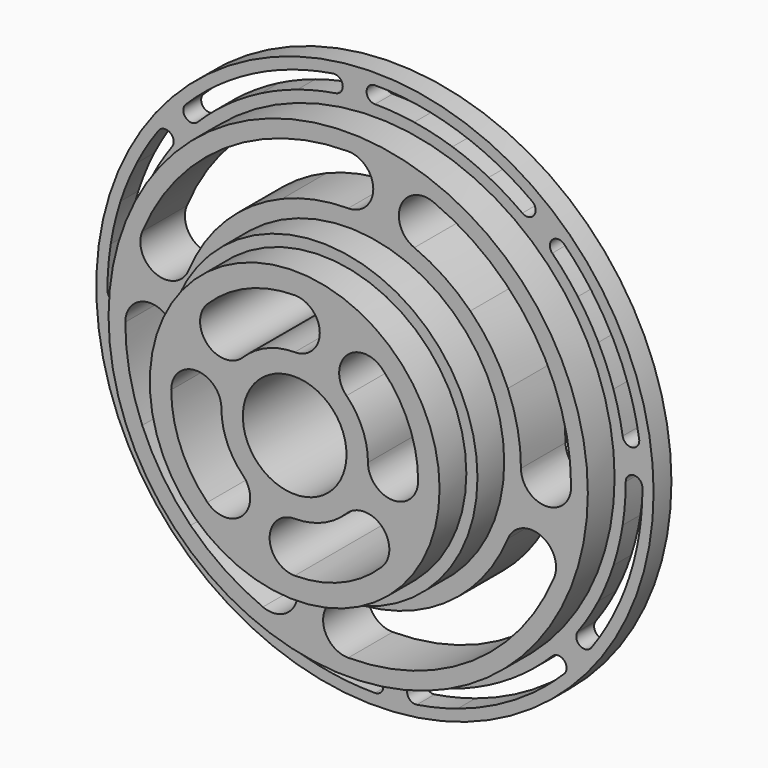
from build123d import *

# Parameters (mm, degrees)
F0_R      = 50
F0_R_2    = 1.5
F0_R_3    = 43
F1_DEPTH  = 4
F0_R_4    = 4.5
F0_R_5    = 28
F2_DEPTH  = 10
F0_R_6    = 26
F3_DEPTH  = 16
F0_R_7    = 9.3
F4_DEPTH  = 22
F6_DEPTH  = 25
F8_DEPTH  = 25
F10_DEPTH = 25


with BuildPart() as f1:
    # F0 (on Front) → F1 (new body)
    with BuildSketch(Plane.XZ):
        Circle(F0_R)
        with Locations((-27.3320142316, -37.6192902384)):
            Circle(F0_R_2, mode=Mode.SUBTRACT)
        with Locations((-37.6192902384, -27.3320142316)):
            Circle(F0_R_2, mode=Mode.SUBTRACT)
        with Locations((-32.8804653252, -32.8804653252)):
            Circle(F0_R_2, mode=Mode.SUBTRACT)
        with Locations((-14.3692902384, -44.2241280077)):
            Circle(F0_R_2, mode=Mode.SUBTRACT)
        with Locations((-21.1105582379, -41.4318033748)):
            Circle(F0_R_2, mode=Mode.SUBTRACT)
        with Locations((-7.2742026244, -45.9275078377)):
            Circle(F0_R_2, mode=Mode.SUBTRACT)
        with Locations((-41.4318033748, -21.1105582379)):
            Circle(F0_R_2, mode=Mode.SUBTRACT)
        with Locations((-44.2241280077, -14.3692902384)):
            Circle(F0_R_2, mode=Mode.SUBTRACT)
        with Locations((-45.9275078377, -7.2742026244)):
            Circle(F0_R_2, mode=Mode.SUBTRACT)
        with Locations((0, -46.5)):
            Circle(F0_R_2, mode=Mode.SUBTRACT)
        with Locations((7.2742026244, -45.9275078377)):
            Circle(F0_R_2, mode=Mode.SUBTRACT)
        with Locations((14.3692902384, -44.2241280077)):
            Circle(F0_R_2, mode=Mode.SUBTRACT)
        with Locations((21.1105582379, -41.4318033748)):
            Circle(F0_R_2, mode=Mode.SUBTRACT)
        with Locations((27.3320142316, -37.6192902384)):
            Circle(F0_R_2, mode=Mode.SUBTRACT)
        with Locations((32.8804653252, -32.8804653252)):
            Circle(F0_R_2, mode=Mode.SUBTRACT)
        with Locations((37.6192902384, -27.3320142316)):
            Circle(F0_R_2, mode=Mode.SUBTRACT)
        with Locations((41.4318033748, -21.1105582379)):
            Circle(F0_R_2, mode=Mode.SUBTRACT)
        with Locations((44.2241280077, -14.3692902384)):
            Circle(F0_R_2, mode=Mode.SUBTRACT)
        with Locations((45.9275078377, -7.2742026244)):
            Circle(F0_R_2, mode=Mode.SUBTRACT)
        with Locations((-46.5, 0)):
            Circle(F0_R_2, mode=Mode.SUBTRACT)
        with Locations((-45.9275078377, 7.2742026244)):
            Circle(F0_R_2, mode=Mode.SUBTRACT)
        with Locations((-44.2241280077, 14.3692902384)):
            Circle(F0_R_2, mode=Mode.SUBTRACT)
        with Locations((-41.4318033748, 21.1105582379)):
            Circle(F0_R_2, mode=Mode.SUBTRACT)
        with Locations((-37.6192902384, 27.3320142316)):
            Circle(F0_R_2, mode=Mode.SUBTRACT)
        with Locations((-32.8804653252, 32.8804653252)):
            Circle(F0_R_2, mode=Mode.SUBTRACT)
        with Locations((-27.3320142316, 37.6192902384)):
            Circle(F0_R_2, mode=Mode.SUBTRACT)
        with Locations((-21.1105582379, 41.4318033748)):
            Circle(F0_R_2, mode=Mode.SUBTRACT)
        with Locations((-14.3692902384, 44.2241280077)):
            Circle(F0_R_2, mode=Mode.SUBTRACT)
        with Locations((-7.2742026244, 45.9275078377)):
            Circle(F0_R_2, mode=Mode.SUBTRACT)
        Circle(F0_R_3, mode=Mode.SUBTRACT)
        with Locations((46.5, 0)):
            Circle(F0_R_2, mode=Mode.SUBTRACT)
        with Locations((45.9275078377, 7.2742026244)):
            Circle(F0_R_2, mode=Mode.SUBTRACT)
        with Locations((44.2241280077, 14.3692902384)):
            Circle(F0_R_2, mode=Mode.SUBTRACT)
        with Locations((41.4318033748, 21.1105582379)):
            Circle(F0_R_2, mode=Mode.SUBTRACT)
        with Locations((0, 46.5)):
            Circle(F0_R_2, mode=Mode.SUBTRACT)
        with Locations((7.2742026244, 45.9275078377)):
            Circle(F0_R_2, mode=Mode.SUBTRACT)
        with Locations((21.1105582379, 41.4318033748)):
            Circle(F0_R_2, mode=Mode.SUBTRACT)
        with Locations((14.3692902384, 44.2241280077)):
            Circle(F0_R_2, mode=Mode.SUBTRACT)
        with Locations((32.8804653252, 32.8804653252)):
            Circle(F0_R_2, mode=Mode.SUBTRACT)
        with Locations((37.6192902384, 27.3320142316)):
            Circle(F0_R_2, mode=Mode.SUBTRACT)
        with Locations((27.3320142316, 37.6192902384)):
            Circle(F0_R_2, mode=Mode.SUBTRACT)
    extrude(amount=F1_DEPTH)

    # F0 (on Front) → F2 (join)
    with BuildSketch(Plane.XZ):
        Circle(F0_R_3)
        with Locations((-25.1022907321, -25.1022907321)):
            Circle(F0_R_4, mode=Mode.SUBTRACT)
        with Locations((-13.585261849, -32.7977234042)):
            Circle(F0_R_4, mode=Mode.SUBTRACT)
        with Locations((-32.7977234042, -13.585261849)):
            Circle(F0_R_4, mode=Mode.SUBTRACT)
        with Locations((0, -35.5)):
            Circle(F0_R_4, mode=Mode.SUBTRACT)
        with Locations((13.585261849, -32.7977234042)):
            Circle(F0_R_4, mode=Mode.SUBTRACT)
        with Locations((25.1022907321, -25.1022907321)):
            Circle(F0_R_4, mode=Mode.SUBTRACT)
        with Locations((32.7977234042, -13.585261849)):
            Circle(F0_R_4, mode=Mode.SUBTRACT)
        with Locations((-35.5, 0)):
            Circle(F0_R_4, mode=Mode.SUBTRACT)
        with Locations((-32.7977234042, 13.585261849)):
            Circle(F0_R_4, mode=Mode.SUBTRACT)
        with Locations((-25.1022907321, 25.1022907321)):
            Circle(F0_R_4, mode=Mode.SUBTRACT)
        with Locations((-13.585261849, 32.7977234042)):
            Circle(F0_R_4, mode=Mode.SUBTRACT)
        Circle(F0_R_5, mode=Mode.SUBTRACT)
        with Locations((35.5, 0)):
            Circle(F0_R_4, mode=Mode.SUBTRACT)
        with Locations((32.7977234042, 13.585261849)):
            Circle(F0_R_4, mode=Mode.SUBTRACT)
        with Locations((0, 35.5)):
            Circle(F0_R_4, mode=Mode.SUBTRACT)
        with Locations((13.585261849, 32.7977234042)):
            Circle(F0_R_4, mode=Mode.SUBTRACT)
        with Locations((25.1022907321, 25.1022907321)):
            Circle(F0_R_4, mode=Mode.SUBTRACT)
    extrude(amount=F2_DEPTH)

    # F0 (on Front) → F3 (join)
    with BuildSketch(Plane.XZ):
        Circle(F0_R_5)
        Circle(F0_R_6, mode=Mode.SUBTRACT)
    extrude(amount=F3_DEPTH)

    # F0 (on Front) → F4 (join)
    with BuildSketch(Plane.XZ):
        Circle(F0_R_6)
        with Locations((-12.4804346879, -12.4804346879)):
            Circle(F0_R_4, mode=Mode.SUBTRACT)
        with Locations((0, -17.65)):
            Circle(F0_R_4, mode=Mode.SUBTRACT)
        with Locations((12.4804346879, -12.4804346879)):
            Circle(F0_R_4, mode=Mode.SUBTRACT)
        with Locations((-17.65, 0)):
            Circle(F0_R_4, mode=Mode.SUBTRACT)
        with Locations((-12.4804346879, 12.4804346879)):
            Circle(F0_R_4, mode=Mode.SUBTRACT)
        Circle(F0_R_7, mode=Mode.SUBTRACT)
        with Locations((12.4804346879, 12.4804346879)):
            Circle(F0_R_4, mode=Mode.SUBTRACT)
        with Locations((17.65, 0)):
            Circle(F0_R_4, mode=Mode.SUBTRACT)
        with Locations((0, 17.65)):
            Circle(F0_R_4, mode=Mode.SUBTRACT)
    extrude(amount=F4_DEPTH)

    # F5 (on face) → F6 (cut)
    with BuildSketch(Plane.XZ.offset(4)):
        with BuildLine():
            ThreePointArc((-5.7742026244, 45.9275078377), (-6.3000305476, 47.0681167824), (-7.5088543109, 47.4090403503))
            ThreePointArc((-7.5088543109, 47.4090403503), (-8.7557351361, 45.6928561456), (-7.0395509267, 44.4459753268))
            ThreePointArc((-7.0395509267, 44.4459753268), (-6.1335936759, 44.9533357652), (-5.7742026244, 45.9275078377))
        make_face()
        with BuildLine():
            ThreePointArc((-7.0395509267, 44.4459753268), (-8.7557351361, 45.6928561456), (-7.5088543109, 47.4090403503))
            ThreePointArc((-7.5088543109, 47.4090403503), (-11.2053775064, 46.6737561692), (-14.8328158214, 45.6507127525))
            ThreePointArc((-14.8328158214, 45.6507127525), (-13.4876123989, 45.4376535275), (-12.8692902384, 44.2241280077))
            ThreePointArc((-12.8692902384, 44.2241280077), (-13.1557647379, 43.3424501417), (-13.9057647178, 42.7975432427))
            ThreePointArc((-13.9057647178, 42.7975432427), (-10.5050413586, 43.7566464215), (-7.0395509267, 44.4459753268))
        make_face()
        with BuildLine():
            ThreePointArc((-12.8692902384, 44.2241280077), (-13.4876123989, 45.4376535275), (-14.8328158214, 45.6507127525))
            ThreePointArc((-14.8328158214, 45.6507127525), (-15.7958749933, 43.7606024559), (-13.9057647178, 42.7975432427))
            ThreePointArc((-13.9057647178, 42.7975432427), (-13.1557647379, 43.3424501417), (-12.8692902384, 44.2241280077))
        make_face()
        with BuildLine():
            ThreePointArc((-13.9057647178, 42.7975432427), (-15.7958749933, 43.7606024559), (-14.8328158214, 45.6507127525))
            ThreePointArc((-14.8328158214, 45.6507127525), (-18.3688047795, 44.3462175498), (-21.791543952, 42.7683131791))
            ThreePointArc((-21.791543952, 42.7683131791), (-20.3268103738, 42.7107636109), (-19.6105582379, 41.4318033748))
            ThreePointArc((-19.6105582379, 41.4318033748), (-19.831598027, 40.6480554694), (-20.42957261, 40.0952935265))
            ThreePointArc((-20.42957261, 40.0952935265), (-17.2207545054, 41.5745789427), (-13.9057647178, 42.7975432427))
        make_face()
        with BuildLine():
            ThreePointArc((-19.6105582379, 41.4318033748), (-20.3268103738, 42.7107636109), (-21.791543952, 42.7683131791))
            ThreePointArc((-21.791543952, 42.7683131791), (-22.4470680642, 40.7508177038), (-20.42957261, 40.0952935265))
            ThreePointArc((-20.42957261, 40.0952935265), (-19.831598027, 40.6480554694), (-19.6105582379, 41.4318033748))
        make_face()
        with BuildLine():
            ThreePointArc((-20.42957261, 40.0952935265), (-22.4470680642, 40.7508177038), (-21.791543952, 42.7683131791))
            ThreePointArc((-21.791543952, 42.7683131791), (-25.0799311131, 40.9267278849), (-28.2136921551, 38.8328156973))
            ThreePointArc((-28.2136921551, 38.8328156973), (-26.6510285068, 38.9558000374), (-25.8320142316, 37.6192902384))
            ThreePointArc((-25.8320142316, 37.6192902384), (-25.9955044239, 36.9383045308), (-26.4503362769, 36.4057648023))
            ThreePointArc((-26.4503362769, 36.4057648023), (-23.5124354303, 38.3688073849), (-20.42957261, 40.0952935265))
        make_face()
        with BuildLine():
            ThreePointArc((-25.8320142316, 37.6192902384), (-26.6510285068, 38.9558000374), (-28.2136921551, 38.8328156973))
            ThreePointArc((-28.2136921551, 38.8328156973), (-28.5455396791, 36.7376122993), (-26.4503362769, 36.4057648023))
            ThreePointArc((-26.4503362769, 36.4057648023), (-25.9955044239, 36.9383045308), (-25.8320142316, 37.6192902384))
        make_face()
        with BuildLine():
            ThreePointArc((-26.4503362769, 36.4057648023), (-28.5455396791, 36.7376122993), (-28.2136921551, 38.8328156973))
            ThreePointArc((-28.2136921551, 38.8328156973), (-31.173506341, 36.4994863307), (-33.941125497, 33.941125497))
            ThreePointArc((-33.941125497, 33.941125497), (-32.3064401766, 34.2662846239), (-31.3804653252, 32.8804653252))
            ThreePointArc((-31.3804653252, 32.8804653252), (-31.4946460264, 32.3064401766), (-31.8198051534, 31.8198051534))
            ThreePointArc((-31.8198051534, 31.8198051534), (-29.225162139, 34.2182684826), (-26.4503362769, 36.4057648023))
        make_face()
        with BuildLine():
            ThreePointArc((-31.3804653252, 32.8804653252), (-32.3064401766, 34.2662846239), (-33.941125497, 33.941125497))
            ThreePointArc((-33.941125497, 33.941125497), (-33.941125497, 31.8198051534), (-31.8198051534, 31.8198051534))
            ThreePointArc((-31.8198051534, 31.8198051534), (-31.4946460264, 32.3064401766), (-31.3804653252, 32.8804653252))
        make_face()
        with BuildLine():
            ThreePointArc((-36.1192902384, 27.3320142316), (-37.1557647204, 28.7585989974), (-38.8328156973, 28.2136921551))
            ThreePointArc((-38.8328156973, 28.2136921551), (-38.5009681184, 26.1184887411), (-36.4057647163, 26.4503363952))
            ThreePointArc((-36.4057647163, 26.4503363952), (-36.192705456, 26.8684887648), (-36.1192902384, 27.3320142316))
        make_face()
        with BuildLine():
            ThreePointArc((-36.4057647163, 26.4503363952), (-38.5009681184, 26.1184887411), (-38.8328156973, 28.2136921551))
            ThreePointArc((-38.8328156973, 28.2136921551), (-40.9267278619, 25.0799311506), (-42.7683131393, 21.7915440302))
            ThreePointArc((-42.7683131393, 21.7915440302), (-41.0816353056, 22.5691131129), (-39.9318033748, 21.1105582379))
            ThreePointArc((-39.9318033748, 21.1105582379), (-39.9732484715, 20.7603902867), (-40.0952935002, 20.4295726616))
            ThreePointArc((-40.0952935002, 20.4295726616), (-38.3688073315, 23.5124355173), (-36.4057647163, 26.4503363952))
        make_face()
        with BuildLine():
            ThreePointArc((-39.9318033748, 21.1105582379), (-41.0816353056, 22.5691131129), (-42.7683131393, 21.7915440302))
            ThreePointArc((-42.7683131393, 21.7915440302), (-42.1127890591, 19.7740484183), (-40.0952935002, 20.4295726616))
            ThreePointArc((-40.0952935002, 20.4295726616), (-39.9732484715, 20.7603902867), (-39.9318033748, 21.1105582379))
        make_face()
        with BuildLine():
            ThreePointArc((-40.0952935002, 20.4295726616), (-42.1127890591, 19.7740484183), (-42.7683131393, 21.7915440302))
            ThreePointArc((-42.7683131393, 21.7915440302), (-44.346217533, 18.3688048201), (-45.6507127525, 14.8328158215))
            ThreePointArc((-45.6507127525, 14.8328158215), (-43.9894762627, 15.8508227418), (-42.7241280077, 14.3692902384))
            ThreePointArc((-42.7241280077, 14.3692902384), (-42.7425954992, 14.1346385261), (-42.7975432425, 13.9057647184))
            ThreePointArc((-42.7975432425, 13.9057647184), (-41.5745789315, 17.2207545324), (-40.0952935002, 20.4295726616))
        make_face()
        with BuildLine():
            ThreePointArc((-42.7241280077, 14.3692902384), (-43.9894762627, 15.8508227418), (-45.6507127525, 14.8328158215))
            ThreePointArc((-45.6507127525, 14.8328158215), (-44.6876535593, 12.9427054835), (-42.7975432425, 13.9057647184))
            ThreePointArc((-42.7975432425, 13.9057647184), (-42.7425954992, 14.1346385261), (-42.7241280077, 14.3692902384))
        make_face()
        with BuildLine():
            ThreePointArc((-42.7975432425, 13.9057647184), (-44.6876535593, 12.9427054835), (-45.6507127525, 14.8328158215))
            ThreePointArc((-45.6507127525, 14.8328158215), (-46.67375615, 11.2053775864), (-47.4090403246, 7.5088544733))
            ThreePointArc((-47.4090403246, 7.5088544733), (-45.8098191177, 8.769578619), (-44.4275078377, 7.2742026244))
            ThreePointArc((-44.4275078377, 7.2742026244), (-44.4321318362, 7.1565139925), (-44.4459753231, 7.03955095))
            ThreePointArc((-44.4459753231, 7.03955095), (-43.7566464187, 10.5050413703), (-42.7975432425, 13.9057647184))
        make_face()
        with BuildLine():
            ThreePointArc((-44.4275078377, 7.2742026244), (-45.8098191177, 8.769578619), (-47.4090403246, 7.5088544733))
            ThreePointArc((-47.4090403246, 7.5088544733), (-46.1621595993, 5.7926701236), (-44.4459753231, 7.03955095))
            ThreePointArc((-44.4459753231, 7.03955095), (-44.4321318362, 7.1565139925), (-44.4275078377, 7.2742026244))
        make_face()
        with BuildLine():
            ThreePointArc((-44.4459753231, 7.03955095), (-46.1621595993, 5.7926701236), (-47.4090403246, 7.5088544733))
            ThreePointArc((-47.4090403246, 7.5088544733), (-47.8520320132, 3.7660366713), (-48, 0))
            ThreePointArc((-48, 0), (-46.5, 1.5), (-45, 0))
            ThreePointArc((-45, 0), (-44.8612800171, 3.5306593194), (-44.4459753231, 7.03955095))
        make_face()
        with BuildLine():
            ThreePointArc((-45, 0), (-46.5, 1.5), (-48, 0))
            ThreePointArc((-48, 0), (-46.5, -1.5), (-45, 0))
        make_face()
        with BuildLine():
            ThreePointArc((-44.4459753325, -7.0395508905), (-46.1621595479, -5.7926701155), (-47.4090403503, -7.5088543109))
            ThreePointArc((-47.4090403503, -7.5088543109), (-45.8098191997, -8.7695786254), (-44.4275078377, -7.2742026244))
            ThreePointArc((-44.4275078377, -7.2742026244), (-44.4321318385, -7.1565139624), (-44.4459753325, -7.0395508905))
        make_face()
        with BuildLine():
            ThreePointArc((-47.4090403503, -7.5088543109), (-46.6737561756, -11.2053774796), (-45.6507127695, -14.832815769))
            ThreePointArc((-45.6507127695, -14.832815769), (-44.687653426, -12.9427054402), (-42.797543173, -13.9057649324))
            ThreePointArc((-42.797543173, -13.9057649324), (-43.7566463994, -10.5050414505), (-44.4459753325, -7.0395508905))
            ThreePointArc((-44.4459753325, -7.0395508905), (-44.4321318385, -7.1565139624), (-44.4275078377, -7.2742026244))
            ThreePointArc((-44.4275078377, -7.2742026244), (-45.8098191997, -8.7695786254), (-47.4090403503, -7.5088543109))
        make_face()
        with BuildLine():
            ThreePointArc((-42.797543173, -13.9057649324), (-44.687653426, -12.9427054402), (-45.6507127695, -14.832815769))
            ThreePointArc((-45.6507127695, -14.832815769), (-43.9894762899, -15.8508227461), (-42.7241280077, -14.3692902384))
            ThreePointArc((-42.7241280077, -14.3692902384), (-42.7425954816, -14.1346386372), (-42.797543173, -13.9057649324))
        make_face()
        with BuildLine():
            ThreePointArc((-45.6507127695, -14.832815769), (-44.3462175435, -18.3688047946), (-42.7683131393, -21.7915440302))
            ThreePointArc((-42.7683131393, -21.7915440302), (-42.1127891065, -19.7740484425), (-40.0952935485, -20.4295725667))
            ThreePointArc((-40.0952935485, -20.4295725667), (-41.5745789088, -17.2207545872), (-42.797543173, -13.9057649324))
            ThreePointArc((-42.797543173, -13.9057649324), (-42.7425954816, -14.1346386372), (-42.7241280077, -14.3692902384))
            ThreePointArc((-42.7241280077, -14.3692902384), (-43.9894762899, -15.8508227461), (-45.6507127695, -14.832815769))
        make_face()
        with BuildLine():
            ThreePointArc((-40.0952935485, -20.4295725667), (-42.1127891065, -19.7740484425), (-42.7683131393, -21.7915440302))
            ThreePointArc((-42.7683131393, -21.7915440302), (-41.0816353056, -22.5691131129), (-39.9318033748, -21.1105582379))
            ThreePointArc((-39.9318033748, -21.1105582379), (-39.9732484839, -20.7603902349), (-40.0952935485, -20.4295725667))
        make_face()
        with BuildLine():
            ThreePointArc((-42.7683131393, -21.7915440302), (-40.9267278854, -25.0799311123), (-38.8328157501, -28.2136920824))
            ThreePointArc((-38.8328157501, -28.2136920824), (-38.5009681041, -26.1184887307), (-36.4057647483, -26.4503363512))
            ThreePointArc((-36.4057647483, -26.4503363512), (-38.3688073736, -23.5124354487), (-40.0952935485, -20.4295725667))
            ThreePointArc((-40.0952935485, -20.4295725667), (-39.9732484839, -20.7603902349), (-39.9318033748, -21.1105582379))
            ThreePointArc((-39.9318033748, -21.1105582379), (-41.0816353056, -22.5691131129), (-42.7683131393, -21.7915440302))
        make_face()
        with BuildLine():
            ThreePointArc((-36.4057647483, -26.4503363512), (-38.5009681041, -26.1184887307), (-38.8328157501, -28.2136920824))
            ThreePointArc((-38.8328157501, -28.2136920824), (-37.1557647631, -28.7585990113), (-36.1192902384, -27.3320142316))
            ThreePointArc((-36.1192902384, -27.3320142316), (-36.1927054644, -26.8684887389), (-36.4057647483, -26.4503363512))
        make_face()
        with BuildLine():
            ThreePointArc((-38.8328157501, -28.2136920824), (-36.4994863599, -31.1735063069), (-33.941125497, -33.941125497))
            ThreePointArc((-33.941125497, -33.941125497), (-33.9411255005, -31.819805157), (-31.8198051606, -31.8198051462))
            ThreePointArc((-31.8198051606, -31.8198051462), (-34.2182684561, -29.2251621701), (-36.4057647483, -26.4503363512))
            ThreePointArc((-36.4057647483, -26.4503363512), (-36.1927054644, -26.8684887389), (-36.1192902384, -27.3320142316))
            ThreePointArc((-36.1192902384, -27.3320142316), (-37.1557647631, -28.7585990113), (-38.8328157501, -28.2136920824))
        make_face()
        with BuildLine():
            ThreePointArc((-31.8198051606, -31.8198051462), (-33.9411255005, -31.819805157), (-33.941125497, -33.941125497))
            ThreePointArc((-33.941125497, -33.941125497), (-32.3064401766, -34.2662846239), (-31.3804653252, -32.8804653252))
            ThreePointArc((-31.3804653252, -32.8804653252), (-31.4946460283, -32.3064401719), (-31.8198051606, -31.8198051462))
        make_face()
        with BuildLine():
            ThreePointArc((-26.4503364215, -36.4057646972), (-28.5455397316, -36.7376123716), (-28.2136921551, -38.8328156973))
            ThreePointArc((-28.2136921551, -38.8328156973), (-26.6510285068, -38.9558000374), (-25.8320142316, -37.6192902384))
            ThreePointArc((-25.8320142316, -37.6192902384), (-25.9955044645, -36.9383044512), (-26.4503364215, -36.4057646972))
        make_face()
        with BuildLine():
            ThreePointArc((-28.2136921551, -38.8328156973), (-25.0799311553, -40.926727859), (-21.7915440401, -42.7683131342))
            ThreePointArc((-21.7915440401, -42.7683131342), (-22.4470679814, -40.7508175411), (-20.4295723728, -40.0952936473))
            ThreePointArc((-20.4295723728, -40.0952936473), (-23.512435393, -38.3688074077), (-26.4503364215, -36.4057646972))
            ThreePointArc((-26.4503364215, -36.4057646972), (-25.9955044645, -36.9383044512), (-25.8320142316, -37.6192902384))
            ThreePointArc((-25.8320142316, -37.6192902384), (-26.6510285068, -38.9558000374), (-28.2136921551, -38.8328156973))
        make_face()
        with BuildLine():
            ThreePointArc((-20.4295723728, -40.0952936473), (-22.4470679814, -40.7508175411), (-21.7915440401, -42.7683131342))
            ThreePointArc((-21.7915440401, -42.7683131342), (-20.326810416, -42.7107636367), (-19.6105582379, -41.4318033748))
            ThreePointArc((-19.6105582379, -41.4318033748), (-19.8315979575, -40.6480555829), (-20.4295723728, -40.0952936473))
        make_face()
        with BuildLine():
            ThreePointArc((-21.7915440401, -42.7683131342), (-18.3688047997, -44.3462175414), (-14.832815769, -45.6507127695))
            ThreePointArc((-14.832815769, -45.6507127695), (-15.7958750018, -43.7606024821), (-13.9057647178, -42.7975432427))
            ThreePointArc((-13.9057647178, -42.7975432427), (-17.2207543824, -41.5745789937), (-20.4295723728, -40.0952936473))
            ThreePointArc((-20.4295723728, -40.0952936473), (-19.8315979575, -40.6480555829), (-19.6105582379, -41.4318033748))
            ThreePointArc((-19.6105582379, -41.4318033748), (-20.326810416, -42.7107636367), (-21.7915440401, -42.7683131342))
        make_face()
        with BuildLine():
            ThreePointArc((-13.9057647178, -42.7975432427), (-15.7958750018, -43.7606024821), (-14.832815769, -45.6507127695))
            ThreePointArc((-14.832815769, -45.6507127695), (-13.4876123766, -45.4376535113), (-12.8692902384, -44.2241280077))
            ThreePointArc((-12.8692902384, -44.2241280077), (-13.1557647379, -43.3424501417), (-13.9057647178, -42.7975432427))
        make_face()
        with BuildLine():
            ThreePointArc((-14.832815769, -45.6507127695), (-11.2053775101, -46.6737561683), (-7.5088543729, -47.4090403405))
            ThreePointArc((-7.5088543729, -47.4090403405), (-8.7557351331, -45.6928561262), (-7.03955095, -44.4459753231))
            ThreePointArc((-7.03955095, -44.4459753231), (-10.50504137, -43.7566464187), (-13.9057647178, -42.7975432427))
            ThreePointArc((-13.9057647178, -42.7975432427), (-13.1557647379, -43.3424501417), (-12.8692902384, -44.2241280077))
            ThreePointArc((-12.8692902384, -44.2241280077), (-13.4876123766, -45.4376535113), (-14.832815769, -45.6507127695))
        make_face()
        with BuildLine():
            ThreePointArc((-7.03955095, -44.4459753231), (-8.7557351331, -45.6928561262), (-7.5088543729, -47.4090403405))
            ThreePointArc((-7.5088543729, -47.4090403405), (-6.3000305715, -47.0681168028), (-5.7742026244, -45.9275078377))
            ThreePointArc((-5.7742026244, -45.9275078377), (-6.1335936836, -44.9533357563), (-7.03955095, -44.4459753231))
        make_face()
        with BuildLine():
            ThreePointArc((-7.5088543729, -47.4090403405), (-3.766036641, -47.8520320156), (-4.07e-08, -48))
            ThreePointArc((-4.07e-08, -48), (-1.5, -46.4999999886), (-1.79e-08, -45))
            ThreePointArc((-1.79e-08, -45), (-3.5306593283, -44.8612800164), (-7.03955095, -44.4459753231))
            ThreePointArc((-7.03955095, -44.4459753231), (-6.1335936836, -44.9533357563), (-5.7742026244, -45.9275078377))
            ThreePointArc((-5.7742026244, -45.9275078377), (-6.3000305715, -47.0681168028), (-7.5088543729, -47.4090403405))
        make_face()
        with BuildLine():
            ThreePointArc((-1.79e-08, -45), (-1.5, -46.4999999886), (-4.07e-08, -48))
            ThreePointArc((-4.07e-08, -48), (1.0606601574, -47.5606601862), (1.5, -46.5))
            ThreePointArc((1.5, -46.5), (1.0606601655, -45.4393398219), (-1.79e-08, -45))
        make_face()
        with BuildLine():
            ThreePointArc((7.0395512408, -44.445975277), (5.7926700877, -46.1621593727), (7.5088543109, -47.4090403503))
            ThreePointArc((7.5088543109, -47.4090403503), (8.4148115691, -46.9016799144), (8.7742026244, -45.9275078377))
            ThreePointArc((8.7742026244, -45.9275078377), (8.2483748177, -44.7868989925), (7.0395512408, -44.445975277))
        make_face()
        with BuildLine():
            ThreePointArc((7.5088543109, -47.4090403503), (11.2053774361, -46.673756186), (14.832815684, -45.6507127971))
            ThreePointArc((14.832815684, -45.6507127971), (12.9427054612, -44.6876534907), (13.9057647181, -42.7975432426))
            ThreePointArc((13.9057647181, -42.7975432426), (10.5050415134, -43.7566463843), (7.0395512408, -44.445975277))
            ThreePointArc((7.0395512408, -44.445975277), (8.2483748177, -44.7868989925), (8.7742026244, -45.9275078377))
            ThreePointArc((8.7742026244, -45.9275078377), (8.4148115691, -46.9016799144), (7.5088543109, -47.4090403503))
        make_face()
        with BuildLine():
            ThreePointArc((13.9057647181, -42.7975432426), (12.9427054612, -44.6876534907), (14.832815684, -45.6507127971))
            ThreePointArc((14.832815684, -45.6507127971), (15.5828157158, -45.1058059057), (15.8692902384, -44.2241280077))
            ThreePointArc((15.8692902384, -44.2241280077), (15.2509681046, -43.0106025073), (13.9057647181, -42.7975432426))
        make_face()
        with BuildLine():
            ThreePointArc((14.832815684, -45.6507127971), (18.3688047534, -44.3462175606), (21.7915440302, -42.7683131393))
            ThreePointArc((21.7915440302, -42.7683131393), (19.7740484333, -42.1127890884), (20.429572603, -40.09529353))
            ThreePointArc((20.429572603, -40.09529353), (17.2207545019, -41.5745789442), (13.9057647181, -42.7975432426))
            ThreePointArc((13.9057647181, -42.7975432426), (15.2509681046, -43.0106025073), (15.8692902384, -44.2241280077))
            ThreePointArc((15.8692902384, -44.2241280077), (15.5828157158, -45.1058059057), (14.832815684, -45.6507127971))
        make_face()
        with BuildLine():
            ThreePointArc((20.429572603, -40.09529353), (19.7740484333, -42.1127890884), (21.7915440302, -42.7683131393))
            ThreePointArc((21.7915440302, -42.7683131393), (22.389518497, -42.2155512014), (22.6105582379, -41.4318033748))
            ThreePointArc((22.6105582379, -41.4318033748), (21.8943061398, -40.1528431619), (20.429572603, -40.09529353))
        make_face()
        with BuildLine():
            ThreePointArc((21.7915440302, -42.7683131393), (25.0799311248, -40.9267278777), (28.2136921061, -38.8328157328))
            ThreePointArc((28.2136921061, -38.8328157328), (26.1184887454, -38.5009681242), (26.4503363346, -36.4057647604))
            ThreePointArc((26.4503363346, -36.4057647604), (23.5124354573, -38.3688073683), (20.429572603, -40.09529353))
            ThreePointArc((20.429572603, -40.09529353), (21.8943061398, -40.1528431619), (22.6105582379, -41.4318033748))
            ThreePointArc((22.6105582379, -41.4318033748), (22.389518497, -42.2155512014), (21.7915440302, -42.7683131393))
        make_face()
        with BuildLine():
            ThreePointArc((26.4503363346, -36.4057647604), (26.1184887454, -38.5009681242), (28.2136921061, -38.8328157328))
            ThreePointArc((28.2136921061, -38.8328157328), (28.6685240168, -38.3002759902), (28.8320142316, -37.6192902384))
            ThreePointArc((28.8320142316, -37.6192902384), (28.012999971, -36.2827804469), (26.4503363346, -36.4057647604))
        make_face()
        with BuildLine():
            ThreePointArc((28.2136921061, -38.8328157328), (31.173506318, -36.4994863504), (33.941125497, -33.941125497))
            ThreePointArc((33.941125497, -33.941125497), (31.8198051746, -33.9411255182), (31.819805111, -31.8198051958))
            ThreePointArc((31.819805111, -31.8198051958), (29.2251621433, -34.218268479), (26.4503363346, -36.4057647604))
            ThreePointArc((26.4503363346, -36.4057647604), (28.012999971, -36.2827804469), (28.8320142316, -37.6192902384))
            ThreePointArc((28.8320142316, -37.6192902384), (28.6685240168, -38.3002759902), (28.2136921061, -38.8328157328))
        make_face()
        with BuildLine():
            ThreePointArc((31.819805111, -31.8198051958), (31.8198051746, -33.9411255182), (33.941125497, -33.941125497))
            ThreePointArc((33.941125497, -33.941125497), (34.2662846239, -33.4544904737), (34.3804653252, -32.8804653252))
            ThreePointArc((34.3804653252, -32.8804653252), (33.454490446, -31.4946460149), (31.819805111, -31.8198051958))
        make_face()
        with BuildLine():
            ThreePointArc((36.405764935, -26.4503360943), (36.737612208, -28.5455396128), (38.8328156973, -28.2136921551))
            ThreePointArc((38.8328156973, -28.2136921551), (39.0458750043, -27.7955397496), (39.1192902384, -27.3320142316))
            ThreePointArc((39.1192902384, -27.3320142316), (38.0828158822, -25.9054295066), (36.405764935, -26.4503360943))
        make_face()
        with BuildLine():
            ThreePointArc((38.8328156973, -28.2136921551), (40.926727886, -25.0799311113), (42.7683131811, -21.7915439482))
            ThreePointArc((42.7683131811, -21.7915439482), (40.750817687, -22.4470680557), (40.0952935455, -20.4295725727))
            ThreePointArc((40.0952935455, -20.4295725727), (38.3688074548, -23.5124353162), (36.405764935, -26.4503360943))
            ThreePointArc((36.405764935, -26.4503360943), (38.0828158822, -25.9054295066), (39.1192902384, -27.3320142316))
            ThreePointArc((39.1192902384, -27.3320142316), (39.0458750043, -27.7955397496), (38.8328156973, -28.2136921551))
        make_face()
        with BuildLine():
            ThreePointArc((40.0952935455, -20.4295725727), (40.750817687, -22.4470680557), (42.7683131811, -21.7915439482))
            ThreePointArc((42.7683131811, -21.7915439482), (42.8903582605, -21.4607262622), (42.9318033748, -21.1105582379))
            ThreePointArc((42.9318033748, -21.1105582379), (41.7819713745, -19.6520033462), (40.0952935455, -20.4295725727))
        make_face()
        with BuildLine():
            ThreePointArc((42.7683131811, -21.7915439482), (44.3462175506, -18.3688047776), (45.6507127525, -14.8328158215))
            ThreePointArc((45.6507127525, -14.8328158215), (43.7606025222, -15.7958750148), (42.7975431996, -13.9057648504))
            ThreePointArc((42.7975431996, -13.9057648504), (41.574578924, -17.2207545505), (40.0952935455, -20.4295725727))
            ThreePointArc((40.0952935455, -20.4295725727), (41.7819713745, -19.6520033462), (42.9318033748, -21.1105582379))
            ThreePointArc((42.9318033748, -21.1105582379), (42.8903582605, -21.4607262622), (42.7683131811, -21.7915439482))
        make_face()
        with BuildLine():
            ThreePointArc((42.7975431996, -13.9057648504), (43.7606025222, -15.7958750148), (45.6507127525, -14.8328158215))
            ThreePointArc((45.6507127525, -14.8328158215), (45.7056605111, -14.6039419835), (45.7241280077, -14.3692902384))
            ThreePointArc((45.7241280077, -14.3692902384), (44.4587796515, -12.887757719), (42.7975431996, -13.9057648504))
        make_face()
        with BuildLine():
            ThreePointArc((45.6507127525, -14.8328158215), (46.6737561528, -11.2053775747), (47.4090403283, -7.5088544496))
            ThreePointArc((47.4090403283, -7.5088544496), (45.6928560277, -8.7557351175), (44.4459753422, -7.0395508297))
            ThreePointArc((44.4459753422, -7.0395508297), (43.7566464167, -10.5050413786), (42.7975431996, -13.9057648504))
            ThreePointArc((42.7975431996, -13.9057648504), (44.4587796515, -12.887757719), (45.7241280077, -14.3692902384))
            ThreePointArc((45.7241280077, -14.3692902384), (45.7056605111, -14.6039419835), (45.6507127525, -14.8328158215))
        make_face()
        with BuildLine():
            ThreePointArc((45.6507127525, -14.8328158215), (46.6737561528, -11.2053775747), (47.4090403283, -7.5088544496))
            ThreePointArc((47.4090403283, -7.5088544496), (45.6928560277, -8.7557351175), (44.4459753422, -7.0395508297))
            ThreePointArc((44.4459753422, -7.0395508297), (43.7566464167, -10.5050413786), (42.7975431996, -13.9057648504))
            ThreePointArc((42.7975431996, -13.9057648504), (44.4587796515, -12.887757719), (45.7241280077, -14.3692902384))
            ThreePointArc((45.7241280077, -14.3692902384), (45.7056605111, -14.6039419835), (45.6507127525, -14.8328158215))
        make_face()
        with BuildLine():
            ThreePointArc((44.4459753422, -7.0395508297), (45.6928560277, -8.7557351175), (47.4090403283, -7.5088544496))
            ThreePointArc((47.4090403283, -7.5088544496), (47.4228838332, -7.3918913324), (47.4275078377, -7.2742026244))
            ThreePointArc((47.4275078377, -7.2742026244), (46.0451965303, -5.7788266276), (44.4459753422, -7.0395508297))
        make_face()
        with BuildLine():
            ThreePointArc((47.4090403283, -7.5088544496), (47.8520320141, -3.7660366594), (48, 0))
            ThreePointArc((48, 0), (46.5, -1.5), (45, 0))
            ThreePointArc((45, 0), (44.8612800218, -3.5306592587), (44.4459753422, -7.0395508297))
            ThreePointArc((44.4459753422, -7.0395508297), (46.0451965303, -5.7788266276), (47.4275078377, -7.2742026244))
            ThreePointArc((47.4275078377, -7.2742026244), (47.4228838332, -7.3918913324), (47.4090403283, -7.5088544496))
        make_face()
        with BuildLine():
            ThreePointArc((45, 0), (46.5, -1.5), (48, 0))
            ThreePointArc((48, 0), (46.5, 1.5), (45, 0))
        make_face()
        with BuildLine():
            ThreePointArc((47.4275078377, 7.2742026244), (47.4228838387, 7.3918912624), (47.4090403503, 7.5088543109))
            ThreePointArc((47.4090403503, 7.5088543109), (45.6928561756, 8.7557351409), (44.4459753173, 7.0395509867))
            ThreePointArc((44.4459753173, 7.0395509867), (46.045196451, 5.7788266214), (47.4275078377, 7.2742026244))
        make_face()
        with BuildLine():
            ThreePointArc((44.4459753173, 7.0395509867), (45.6928561756, 8.7557351409), (47.4090403503, 7.5088543109))
            ThreePointArc((47.4090403503, 7.5088543109), (46.6737561692, 11.2053775064), (45.6507127525, 14.8328158214))
            ThreePointArc((45.6507127525, 14.8328158214), (45.7056605111, 14.6039419835), (45.7241280077, 14.3692902384))
            ThreePointArc((45.7241280077, 14.3692902384), (44.4587797204, 12.8877577299), (42.7975432427, 13.9057647178))
            ThreePointArc((42.7975432427, 13.9057647178), (43.7566464144, 10.5050413881), (44.4459753173, 7.0395509867))
        make_face()
        with BuildLine():
            ThreePointArc((45.7241280077, 14.3692902384), (45.7056605111, 14.6039419835), (45.6507127525, 14.8328158214))
            ThreePointArc((45.6507127525, 14.8328158214), (43.7606024559, 15.7958749933), (42.7975432427, 13.9057647178))
            ThreePointArc((42.7975432427, 13.9057647178), (44.4587797204, 12.8877577299), (45.7241280077, 14.3692902384))
        make_face()
        with BuildLine():
            ThreePointArc((42.7975432427, 13.9057647178), (43.7606024559, 15.7958749933), (45.6507127525, 14.8328158214))
            ThreePointArc((45.6507127525, 14.8328158214), (44.34621755, 18.368804779), (42.7683131797, 21.7915439509))
            ThreePointArc((42.7683131797, 21.7915439509), (42.8903582602, 21.4607262637), (42.9318033748, 21.1105582379))
            ThreePointArc((42.9318033748, 21.1105582379), (41.7819713321, 19.6520033361), (40.0952935059, 20.4295726504))
            ThreePointArc((40.0952935059, 20.4295726504), (41.574578934, 17.2207545264), (42.7975432427, 13.9057647178))
        make_face()
        with BuildLine():
            ThreePointArc((42.9318033748, 21.1105582379), (42.8903582602, 21.4607262637), (42.7683131797, 21.7915439509))
            ThreePointArc((42.7683131797, 21.7915439509), (40.7508177245, 22.4470680748), (40.0952935059, 20.4295726504))
            ThreePointArc((40.0952935059, 20.4295726504), (41.7819713321, 19.6520033361), (42.9318033748, 21.1105582379))
        make_face()
        with BuildLine():
            ThreePointArc((40.0952935059, 20.4295726504), (40.7508177245, 22.4470680748), (42.7683131797, 21.7915439509))
            ThreePointArc((42.7683131797, 21.7915439509), (40.9267278852, 25.0799311126), (38.8328156973, 28.2136921551))
            ThreePointArc((38.8328156973, 28.2136921551), (39.0458750043, 27.7955397496), (39.1192902384, 27.3320142316))
            ThreePointArc((39.1192902384, 27.3320142316), (38.0828156643, 25.9054294358), (36.4057646656, 26.450336465))
            ThreePointArc((36.4057646656, 26.450336465), (38.3688073123, 23.5124355487), (40.0952935059, 20.4295726504))
        make_face()
        with BuildLine():
            ThreePointArc((39.1192902384, 27.3320142316), (39.0458750043, 27.7955397496), (38.8328156973, 28.2136921551))
            ThreePointArc((38.8328156973, 28.2136921551), (36.7376123934, 28.5455397474), (36.4057646656, 26.450336465))
            ThreePointArc((36.4057646656, 26.450336465), (38.0828156643, 25.9054294358), (39.1192902384, 27.3320142316))
        make_face()
        with BuildLine():
            ThreePointArc((36.4057646656, 26.450336465), (36.7376123934, 28.5455397474), (38.8328156973, 28.2136921551))
            ThreePointArc((38.8328156973, 28.2136921551), (36.4994863307, 31.173506341), (33.941125497, 33.941125497))
            ThreePointArc((33.941125497, 33.941125497), (34.2662846239, 33.4544904737), (34.3804653252, 32.8804653252))
            ThreePointArc((34.3804653252, 32.8804653252), (33.4544904737, 31.4946460264), (31.8198051534, 31.8198051534))
            ThreePointArc((31.8198051534, 31.8198051534), (34.2182684071, 29.2251622274), (36.4057646656, 26.450336465))
        make_face()
        with BuildLine():
            ThreePointArc((34.3804653252, 32.8804653252), (34.2662846239, 33.4544904737), (33.941125497, 33.941125497))
            ThreePointArc((33.941125497, 33.941125497), (31.8198051534, 33.941125497), (31.8198051534, 31.8198051534))
            ThreePointArc((31.8198051534, 31.8198051534), (33.4544904737, 31.4946460264), (34.3804653252, 32.8804653252))
        make_face()
        with BuildLine():
            ThreePointArc((36.4057646656, 26.450336465), (36.7376123934, 28.5455397474), (38.8328156973, 28.2136921551))
            ThreePointArc((38.8328156973, 28.2136921551), (36.4994863307, 31.173506341), (33.941125497, 33.941125497))
            ThreePointArc((33.941125497, 33.941125497), (34.2662846239, 33.4544904737), (34.3804653252, 32.8804653252))
            ThreePointArc((34.3804653252, 32.8804653252), (33.4544904737, 31.4946460264), (31.8198051534, 31.8198051534))
            ThreePointArc((31.8198051534, 31.8198051534), (34.2182684071, 29.2251622274), (36.4057646656, 26.450336465))
        make_face()
        with BuildLine():
            ThreePointArc((28.8320142316, 37.6192902384), (28.6685240305, 38.3002759632), (28.2136921551, 38.8328156973))
            ThreePointArc((28.2136921551, 38.8328156973), (26.1184887669, 38.5009681538), (26.4503363243, 36.4057647678))
            ThreePointArc((26.4503363243, 36.4057647678), (28.0129999653, 36.2827804441), (28.8320142316, 37.6192902384))
        make_face()
        with BuildLine():
            ThreePointArc((26.4503363243, 36.4057647678), (26.1184887669, 38.5009681538), (28.2136921551, 38.8328156973))
            ThreePointArc((28.2136921551, 38.8328156973), (25.0799311506, 40.9267278619), (21.7915440302, 42.7683131393))
            ThreePointArc((21.7915440302, 42.7683131393), (22.389518497, 42.2155512014), (22.6105582379, 41.4318033748))
            ThreePointArc((22.6105582379, 41.4318033748), (21.8943060438, 40.152843103), (20.4295724021, 40.0952936324))
            ThreePointArc((20.4295724021, 40.0952936324), (23.5124353558, 38.3688074305), (26.4503363243, 36.4057647678))
        make_face()
        with BuildLine():
            ThreePointArc((22.6105582379, 41.4318033748), (22.389518497, 42.2155512014), (21.7915440302, 42.7683131393))
            ThreePointArc((21.7915440302, 42.7683131393), (19.7740484844, 42.1127891888), (20.4295724021, 40.0952936324))
            ThreePointArc((20.4295724021, 40.0952936324), (21.8943060438, 40.152843103), (22.6105582379, 41.4318033748))
        make_face()
        with BuildLine():
            ThreePointArc((20.4295724021, 40.0952936324), (19.7740484844, 42.1127891888), (21.7915440302, 42.7683131393))
            ThreePointArc((21.7915440302, 42.7683131393), (18.3688047534, 44.3462175606), (14.832815684, 45.6507127971))
            ThreePointArc((14.832815684, 45.6507127971), (15.5828157158, 45.1058059057), (15.8692902384, 44.2241280077))
            ThreePointArc((15.8692902384, 44.2241280077), (15.2509680779, 43.0106024878), (13.9057646552, 42.7975432631))
            ThreePointArc((13.9057646552, 42.7975432631), (17.2207543672, 41.574579), (20.4295724021, 40.0952936324))
        make_face()
        with BuildLine():
            ThreePointArc((15.8692902384, 44.2241280077), (15.5828157158, 45.1058059057), (14.832815684, 45.6507127971))
            ThreePointArc((14.832815684, 45.6507127971), (12.9427054714, 44.6876535222), (13.9057646552, 42.7975432631))
            ThreePointArc((13.9057646552, 42.7975432631), (15.2509680779, 43.0106024878), (15.8692902384, 44.2241280077))
        make_face()
        with BuildLine():
            ThreePointArc((13.9057646552, 42.7975432631), (12.9427054714, 44.6876535222), (14.832815684, 45.6507127971))
            ThreePointArc((14.832815684, 45.6507127971), (11.2053774361, 46.673756186), (7.5088543109, 47.4090403503))
            ThreePointArc((7.5088543109, 47.4090403503), (8.4148115691, 46.9016799144), (8.7742026244, 45.9275078377))
            ThreePointArc((8.7742026244, 45.9275078377), (8.2483746969, 44.7868988893), (7.0395509269, 44.4459753268))
            ThreePointArc((7.0395509269, 44.4459753268), (10.5050413267, 43.7566464291), (13.9057646552, 42.7975432631))
        make_face()
        with BuildLine():
            ThreePointArc((8.7742026244, 45.9275078377), (8.4148115691, 46.9016799144), (7.5088543109, 47.4090403503))
            ThreePointArc((7.5088543109, 47.4090403503), (5.7926701126, 46.1621595296), (7.0395509269, 44.4459753268))
            ThreePointArc((7.0395509269, 44.4459753268), (8.2483746969, 44.7868988893), (8.7742026244, 45.9275078377))
        make_face()
        with BuildLine():
            ThreePointArc((7.0395509269, 44.4459753268), (5.7926701126, 46.1621595296), (7.5088543109, 47.4090403503))
            ThreePointArc((7.5088543109, 47.4090403503), (3.7660365894, 47.8520320196), (0, 48))
            ThreePointArc((0, 48), (1.0606601718, 47.5606601718), (1.5, 46.5))
            ThreePointArc((1.5, 46.5), (1.0606601659, 45.4393398223), (-1.67e-08, 45))
            ThreePointArc((-1.67e-08, 45), (3.5306592995, 44.8612800186), (7.0395509269, 44.4459753268))
        make_face()
        with BuildLine():
            ThreePointArc((1.5, 46.5), (1.0606601718, 47.5606601718), (0, 48))
            ThreePointArc((0, 48), (-1.5, 46.5000000084), (-1.67e-08, 45))
            ThreePointArc((-1.67e-08, 45), (1.0606601659, 45.4393398223), (1.5, 46.5))
        make_face()
        with BuildLine():
            ThreePointArc((7.0395509269, 44.4459753268), (5.7926701126, 46.1621595296), (7.5088543109, 47.4090403503))
            ThreePointArc((7.5088543109, 47.4090403503), (3.7660365894, 47.8520320196), (0, 48))
            ThreePointArc((0, 48), (1.0606601718, 47.5606601718), (1.5, 46.5))
            ThreePointArc((1.5, 46.5), (1.0606601659, 45.4393398223), (-1.67e-08, 45))
            ThreePointArc((-1.67e-08, 45), (3.5306592995, 44.8612800186), (7.0395509269, 44.4459753268))
        make_face()
    extrude(amount=-F6_DEPTH, mode=Mode.SUBTRACT)

    # F7 (on face) → F8 (cut)
    with BuildSketch(Plane.XZ.offset(10)):
        with BuildLine():
            ThreePointArc((0, 40), (-4.5, 35.5000000164), (-3.28e-08, 31))
            ThreePointArc((-3.28e-08, 31), (3.1819805037, 32.3180194731), (4.5, 35.5))
            ThreePointArc((4.5, 35.5), (3.1819805153, 38.6819805153), (0, 40))
        make_face()
        with BuildLine():
            ThreePointArc((-11.8631864863, 28.6402654735), (-6.0478000426, 30.4043436805), (-3.28e-08, 31))
            ThreePointArc((-3.28e-08, 31), (-4.5, 35.5000000164), (0, 40))
            ThreePointArc((0, 40), (-7.8036129554, 39.2314112013), (-15.3073374355, 36.9551812421))
            ThreePointArc((-15.3073374355, 36.9551812421), (-11.0851958638, 36.5393367019), (-9.085261849, 32.7977234042))
            ThreePointArc((-9.085261849, 32.7977234042), (-9.8436486185, 30.2976573182), (-11.8631864863, 28.6402654735))
        make_face()
        with BuildLine():
            ThreePointArc((-15.3073374355, 36.9551812421), (-17.7427197333, 31.0756479295), (-11.8631864863, 28.6402654735))
            ThreePointArc((-11.8631864863, 28.6402654735), (-9.8436486185, 30.2976573182), (-9.085261849, 32.7977234042))
            ThreePointArc((-9.085261849, 32.7977234042), (-11.0851958638, 36.5393367019), (-15.3073374355, 36.9551812421))
        make_face()
        with BuildLine():
            ThreePointArc((-21.9203102669, 21.9203101667), (-17.2226772904, 25.7755579368), (-11.8631864863, 28.6402654735))
            ThreePointArc((-11.8631864863, 28.6402654735), (-17.7427197333, 31.0756479295), (-15.3073374355, 36.9551812421))
            ThreePointArc((-15.3073374355, 36.9551812421), (-22.2228094049, 33.2587844359), (-28.2842712827, 28.2842712122))
            ThreePointArc((-28.2842712827, 28.2842712122), (-23.3802153095, 29.259748638), (-20.6022907321, 25.1022907321))
            ThreePointArc((-20.6022907321, 25.1022907321), (-20.9448328494, 23.3802152538), (-21.9203102669, 21.9203101667))
        make_face()
        with BuildLine():
            ThreePointArc((-28.2842712827, 28.2842712122), (-28.2842712549, 21.9203102242), (-21.9203102669, 21.9203101667))
            ThreePointArc((-21.9203102669, 21.9203101667), (-20.9448328494, 23.3802152538), (-20.6022907321, 25.1022907321))
            ThreePointArc((-20.6022907321, 25.1022907321), (-23.3802153095, 29.259748638), (-28.2842712827, 28.2842712122))
        make_face()
        with BuildLine():
            ThreePointArc((-28.6402655545, 11.8631862908), (-25.7755580349, 17.2226771435), (-21.9203102669, 21.9203101667))
            ThreePointArc((-21.9203102669, 21.9203101667), (-28.2842712549, 21.9203102242), (-28.2842712827, 28.2842712122))
            ThreePointArc((-28.2842712827, 28.2842712122), (-33.2587845923, 22.2228091708), (-36.9551814194, 15.3073370074))
            ThreePointArc((-36.9551814194, 15.3073370074), (-31.9198171075, 17.9987956411), (-28.2977234042, 13.585261849))
            ThreePointArc((-28.2977234042, 13.585261849), (-28.3841896542, 12.7073553401), (-28.6402655545, 11.8631862908))
        make_face()
        with BuildLine():
            ThreePointArc((-36.9551814194, 15.3073370074), (-34.5197987625, 9.4278039165), (-28.6402655545, 11.8631862908))
            ThreePointArc((-28.6402655545, 11.8631862908), (-28.3841896542, 12.7073553401), (-28.2977234042, 13.585261849))
            ThreePointArc((-28.2977234042, 13.585261849), (-31.9198171075, 17.9987956411), (-36.9551814194, 15.3073370074))
        make_face()
        with BuildLine():
            ThreePointArc((-40, 1.18e-08), (-35.5000000059, -4.5), (-31, 0))
            ThreePointArc((-31, 0), (-35.4999999941, 4.5), (-40, 1.18e-08))
        make_face()
        with BuildLine():
            ThreePointArc((-36.9551813957, -15.3073370647), (-34.5197987076, -9.4278038938), (-28.6402654853, -11.8631864578))
            ThreePointArc((-28.6402654853, -11.8631864578), (-30.4043436868, -6.0478000114), (-31, 0))
            ThreePointArc((-31, 0), (-35.5000000059, -4.5), (-40, 1.18e-08))
            ThreePointArc((-40, 1.18e-08), (-39.2314112416, -7.8036127528), (-36.9551813957, -15.3073370647))
        make_face()
        with BuildLine():
            ThreePointArc((-28.2977234042, -13.585261849), (-28.3841896366, -12.7073554288), (-28.6402654853, -11.8631864578))
            ThreePointArc((-28.6402654853, -11.8631864578), (-34.5197987076, -9.4278038938), (-36.9551813957, -15.3073370647))
            ThreePointArc((-36.9551813957, -15.3073370647), (-31.9198170771, -17.9987956351), (-28.2977234042, -13.585261849))
        make_face()
        with BuildLine():
            ThreePointArc((-28.2842712819, -28.284271213), (-28.2842712189, -21.9203101883), (-21.9203101942, -21.9203102394))
            ThreePointArc((-21.9203101942, -21.9203102394), (-25.7755579561, -17.2226772614), (-28.6402654853, -11.8631864578))
            ThreePointArc((-28.6402654853, -11.8631864578), (-28.3841896366, -12.7073554288), (-28.2977234042, -13.585261849))
            ThreePointArc((-28.2977234042, -13.585261849), (-31.9198170771, -17.9987956351), (-36.9551813957, -15.3073370647))
            ThreePointArc((-36.9551813957, -15.3073370647), (-33.2587845748, -22.2228091971), (-28.2842712819, -28.284271213))
        make_face()
        with BuildLine():
            ThreePointArc((-20.6022907321, -25.1022907321), (-20.9448328297, -23.3802153012), (-21.9203101942, -21.9203102394))
            ThreePointArc((-21.9203101942, -21.9203102394), (-28.2842712189, -21.9203101883), (-28.2842712819, -28.284271213))
            ThreePointArc((-28.2842712819, -28.284271213), (-23.380215309, -29.2597486377), (-20.6022907321, -25.1022907321))
        make_face()
        with BuildLine():
            ThreePointArc((-15.3073370647, -36.9551813957), (-17.7427197559, -31.0756479841), (-11.8631862246, -28.6402655819))
            ThreePointArc((-11.8631862246, -28.6402655819), (-17.2226771299, -25.775558044), (-21.9203101942, -21.9203102394))
            ThreePointArc((-21.9203101942, -21.9203102394), (-20.9448328297, -23.3802153012), (-20.6022907321, -25.1022907321))
            ThreePointArc((-20.6022907321, -25.1022907321), (-23.380215309, -29.2597486377), (-28.2842712819, -28.284271213))
            ThreePointArc((-28.2842712819, -28.284271213), (-22.2228092376, -33.2587845477), (-15.3073370647, -36.9551813957))
        make_face()
        with BuildLine():
            ThreePointArc((-9.085261849, -32.7977234042), (-9.8436485398, -30.297657436), (-11.8631862246, -28.6402655819))
            ThreePointArc((-11.8631862246, -28.6402655819), (-17.7427197559, -31.0756479841), (-15.3073370647, -36.9551813957))
            ThreePointArc((-15.3073370647, -36.9551813957), (-11.0851956969, -36.5393365904), (-9.085261849, -32.7977234042))
        make_face()
        with BuildLine():
            ThreePointArc((4.5, -35.5), (3.1819805228, -32.3180194921), (2.1e-08, -31))
            ThreePointArc((2.1e-08, -31), (-4.5, -35.4999999741), (-3.09e-08, -40))
            ThreePointArc((-3.09e-08, -40), (3.1819805044, -38.6819805263), (4.5, -35.5))
        make_face()
        with BuildLine():
            ThreePointArc((15.3073369654, -36.9551814368), (9.4278038908, -34.5197987004), (11.8631863728, -28.6402655205))
            ThreePointArc((11.8631863728, -28.6402655205), (6.0477999766, -30.4043436937), (2.1e-08, -31))
            ThreePointArc((2.1e-08, -31), (3.1819805228, -32.3180194921), (4.5, -35.5))
            ThreePointArc((4.5, -35.5), (3.1819805044, -38.6819805263), (-3.09e-08, -40))
            ThreePointArc((-3.09e-08, -40), (7.8036126908, -39.2314112539), (15.3073369654, -36.9551814368))
        make_face()
        with BuildLine():
            ThreePointArc((18.085261849, -32.7977234042), (16.0853278838, -29.0561101396), (11.8631863728, -28.6402655205))
            ThreePointArc((11.8631863728, -28.6402655205), (9.4278038908, -34.5197987004), (15.3073369654, -36.9551814368))
            ThreePointArc((15.3073369654, -36.9551814368), (17.3268750053, -35.2977896009), (18.085261849, -32.7977234042))
        make_face()
        with BuildLine():
            ThreePointArc((28.2842712475, -28.2842712475), (21.9203102011, -28.2842712318), (21.9203102481, -21.9203101854))
            ThreePointArc((21.9203102481, -21.9203101854), (17.2226772283, -25.7755579782), (11.8631863728, -28.6402655205))
            ThreePointArc((11.8631863728, -28.6402655205), (16.0853278838, -29.0561101396), (18.085261849, -32.7977234042))
            ThreePointArc((18.085261849, -32.7977234042), (17.3268750053, -35.2977896009), (15.3073369654, -36.9551814368))
            ThreePointArc((15.3073369654, -36.9551814368), (22.2228091726, -33.2587845911), (28.2842712475, -28.2842712475))
        make_face()
        with BuildLine():
            ThreePointArc((29.6022907321, -25.1022907321), (26.8243661982, -20.9448328443), (21.9203102481, -21.9203101854))
            ThreePointArc((21.9203102481, -21.9203101854), (21.9203102011, -28.2842712318), (28.2842712475, -28.2842712475))
            ThreePointArc((28.2842712475, -28.2842712475), (29.2597486284, -26.8243661778), (29.6022907321, -25.1022907321))
        make_face()
        with BuildLine():
            ThreePointArc((36.9551812037, -15.3073375282), (31.0756479652, -17.742719748), (28.6402654055, -11.8631866503))
            ThreePointArc((28.6402654055, -11.8631866503), (25.7755579194, -17.2226773163), (21.9203102481, -21.9203101854))
            ThreePointArc((21.9203102481, -21.9203101854), (26.8243661982, -20.9448328443), (29.6022907321, -25.1022907321))
            ThreePointArc((29.6022907321, -25.1022907321), (29.2597486284, -26.8243661778), (28.2842712475, -28.2842712475))
            ThreePointArc((28.2842712475, -28.2842712475), (33.2587844219, -22.2228094259), (36.9551812037, -15.3073375282))
        make_face()
        with BuildLine():
            ThreePointArc((37.2977234042, -13.585261849), (33.6756297221, -9.1717280611), (28.6402654055, -11.8631866503))
            ThreePointArc((28.6402654055, -11.8631866503), (31.0756479652, -17.742719748), (36.9551812037, -15.3073375282))
            ThreePointArc((36.9551812037, -15.3073375282), (37.2112571413, -14.463168422), (37.2977234042, -13.585261849))
        make_face()
        with BuildLine():
            ThreePointArc((40, 0), (35.5, 4.5), (31, 0))
            ThreePointArc((31, 0), (35.5, -4.5), (40, 0))
        make_face()
        with BuildLine():
            ThreePointArc((28.6402654764, 11.8631864791), (30.4043436845, 6.0478000227), (31, 0))
            ThreePointArc((31, 0), (35.5, 4.5), (40, 0))
            ThreePointArc((40, 0), (39.2314112465, 7.8036127282), (36.9551814194, 15.3073370074))
            ThreePointArc((36.9551814194, 15.3073370074), (37.2112571963, 14.4631681456), (37.2977234042, 13.585261849))
            ThreePointArc((37.2977234042, 13.585261849), (33.675629813, 9.1717280791), (28.6402654764, 11.8631864791))
        make_face()
        with BuildLine():
            ThreePointArc((36.9551814194, 15.3073370074), (31.07564814, 17.7427198204), (28.6402654764, 11.8631864791))
            ThreePointArc((28.6402654764, 11.8631864791), (33.675629813, 9.1717280791), (37.2977234042, 13.585261849))
            ThreePointArc((37.2977234042, 13.585261849), (37.2112571963, 14.4631681456), (36.9551814194, 15.3073370074))
        make_face()
        with BuildLine():
            ThreePointArc((21.920310205, 21.9203102286), (25.7755579539, 17.2226772647), (28.6402654764, 11.8631864791))
            ThreePointArc((28.6402654764, 11.8631864791), (31.07564814, 17.7427198204), (36.9551814194, 15.3073370074))
            ThreePointArc((36.9551814194, 15.3073370074), (33.2587845785, 22.2228091915), (28.2842712475, 28.2842712475))
            ThreePointArc((28.2842712475, 28.2842712475), (29.2597486284, 26.8243661778), (29.6022907321, 25.1022907321))
            ThreePointArc((29.6022907321, 25.1022907321), (26.82436617, 20.9448328326), (21.920310205, 21.9203102286))
        make_face()
        with BuildLine():
            ThreePointArc((28.2842712475, 28.2842712475), (21.9203102227, 28.2842712534), (21.920310205, 21.9203102286))
            ThreePointArc((21.920310205, 21.9203102286), (26.82436617, 20.9448328326), (29.6022907321, 25.1022907321))
            ThreePointArc((29.6022907321, 25.1022907321), (29.2597486284, 26.8243661778), (28.2842712475, 28.2842712475))
        make_face()
        with BuildLine():
            ThreePointArc((11.8631865057, 28.6402654655), (17.2226772627, 25.7755579553), (21.920310205, 21.9203102286))
            ThreePointArc((21.920310205, 21.9203102286), (21.9203102227, 28.2842712534), (28.2842712475, 28.2842712475))
            ThreePointArc((28.2842712475, 28.2842712475), (22.2228092014, 33.2587845719), (15.3073370293, 36.9551814104))
            ThreePointArc((15.3073370293, 36.9551814104), (17.3268750245, 35.2977895721), (18.085261849, 32.7977234042))
            ThreePointArc((18.085261849, 32.7977234042), (16.0853279436, 29.0561101796), (11.8631865057, 28.6402654655))
        make_face()
        with BuildLine():
            ThreePointArc((15.3073370293, 36.9551814104), (9.4278038765, 34.519798666), (11.8631865057, 28.6402654655))
            ThreePointArc((11.8631865057, 28.6402654655), (16.0853279436, 29.0561101796), (18.085261849, 32.7977234042))
            ThreePointArc((18.085261849, 32.7977234042), (17.3268750245, 35.2977895721), (15.3073370293, 36.9551814104))
        make_face()
    extrude(amount=-F8_DEPTH, mode=Mode.SUBTRACT)

    # F9 (on face) → F10 (cut)
    with BuildSketch(Plane.XZ.offset(22)):
        with BuildLine():
            ThreePointArc((-9.2984541628, 9.2984541824), (-5.0322871104, 12.149015863), (4.06e-08, 13.15))
            ThreePointArc((4.06e-08, 13.15), (-4.5, 17.6499999797), (0, 22.15))
            ThreePointArc((0, 22.15), (-8.4764379834, 20.4639316631), (-15.6624151367, 15.6624152698))
            ThreePointArc((-15.6624151367, 15.6624152698), (-10.7583591988, 16.6378925662), (-7.9804346879, 12.4804346879))
            ThreePointArc((-7.9804346879, 12.4804346879), (-8.322976789, 10.7583592487), (-9.2984541628, 9.2984541824))
        make_face()
        with BuildLine():
            ThreePointArc((-15.6624151367, 15.6624152698), (-15.6624152317, 9.298454201), (-9.2984541628, 9.2984541824))
            ThreePointArc((-9.2984541628, 9.2984541824), (-8.322976789, 10.7583592487), (-7.9804346879, 12.4804346879))
            ThreePointArc((-7.9804346879, 12.4804346879), (-10.7583591988, 16.6378925662), (-15.6624151367, 15.6624152698))
        make_face()
        with BuildLine():
            ThreePointArc((0, 22.15), (-4.5, 17.6499999797), (4.06e-08, 13.15))
            ThreePointArc((4.06e-08, 13.15), (3.1819805297, 14.468019499), (4.5, 17.65))
            ThreePointArc((4.5, 17.65), (3.1819805153, 20.8319805153), (0, 22.15))
        make_face()
        with BuildLine():
            ThreePointArc((15.6624151432, 15.6624152634), (9.2984541371, 15.6624151678), (9.2984541835, 9.2984541617))
            ThreePointArc((9.2984541835, 9.2984541617), (14.2025101407, 8.3229767946), (16.9804346879, 12.4804346879))
            ThreePointArc((16.9804346879, 12.4804346879), (16.637892568, 14.2025101728), (15.6624151432, 15.6624152634))
        make_face()
        with BuildLine():
            ThreePointArc((9.2984541835, 9.2984541617), (12.1490158555, 5.0322871285), (13.15, 0))
            ThreePointArc((13.15, 0), (17.65, 4.5), (22.15, 0))
            ThreePointArc((22.15, 0), (20.4639316289, 8.4764380661), (15.6624151432, 15.6624152634))
            ThreePointArc((15.6624151432, 15.6624152634), (16.637892568, 14.2025101728), (16.9804346879, 12.4804346879))
            ThreePointArc((16.9804346879, 12.4804346879), (14.2025101407, 8.3229767946), (9.2984541835, 9.2984541617))
        make_face()
        with BuildLine():
            ThreePointArc((22.15, 0), (17.65, 4.5), (13.15, 0))
            ThreePointArc((13.15, 0), (17.65, -4.5), (22.15, 0))
        make_face()
        with BuildLine():
            ThreePointArc((16.9804346879, -12.4804346879), (14.2025101176, -8.322976785), (9.2984541482, -9.298454197))
            ThreePointArc((9.2984541482, -9.298454197), (9.2984541831, -15.6624152138), (15.6624151999, -15.6624152066))
            ThreePointArc((15.6624151999, -15.6624152066), (16.6378925833, -14.2025101358), (16.9804346879, -12.4804346879))
        make_face()
        with BuildLine():
            ThreePointArc((15.6624151999, -15.6624152066), (9.2984541831, -15.6624152138), (9.2984541482, -9.298454197))
            ThreePointArc((9.2984541482, -9.298454197), (5.0322871229, -12.1490158578), (6.9e-09, -13.15))
            ThreePointArc((6.9e-09, -13.15), (3.1819805178, -14.4680194871), (4.5, -17.65))
            ThreePointArc((4.5, -17.65), (3.1819805256, -20.8319805051), (2.89e-08, -22.15))
            ThreePointArc((2.89e-08, -22.15), (8.4764380381, -20.4639316405), (15.6624151999, -15.6624152066))
        make_face()
        with BuildLine():
            ThreePointArc((4.5, -17.65), (3.1819805178, -14.4680194871), (6.9e-09, -13.15))
            ThreePointArc((6.9e-09, -13.15), (-4.5, -17.650000011), (2.89e-08, -22.15))
            ThreePointArc((2.89e-08, -22.15), (3.1819805256, -20.8319805051), (4.5, -17.65))
        make_face()
        with BuildLine():
            ThreePointArc((-7.9804346879, -12.4804346879), (-8.3229767964, -10.7583592308), (-9.2984541902, -9.298454155))
            ThreePointArc((-9.2984541902, -9.298454155), (-15.6624151977, -9.298454167), (-15.6624152321, -15.6624151744))
            ThreePointArc((-15.6624152321, -15.6624151744), (-10.7583592612, -16.6378925921), (-7.9804346879, -12.4804346879))
        make_face()
        with BuildLine():
            ThreePointArc((-15.6624152321, -15.6624151744), (-15.6624151977, -9.298454167), (-9.2984541902, -9.298454155))
            ThreePointArc((-9.2984541902, -9.298454155), (-12.1490158573, -5.0322871241), (-13.15, 0))
            ThreePointArc((-13.15, 0), (-17.6499999693, -4.5), (-22.15, -6.14e-08))
            ThreePointArc((-22.15, -6.14e-08), (-20.4639316412, -8.4764380364), (-15.6624152321, -15.6624151744))
        make_face()
        with BuildLine():
            ThreePointArc((-22.15, -6.14e-08), (-17.6499999693, -4.5), (-13.15, 0))
            ThreePointArc((-13.15, 0), (-17.6500000307, 4.5), (-22.15, -6.14e-08))
        make_face()
    extrude(amount=-F10_DEPTH, mode=Mode.SUBTRACT)


solid = f1.part
